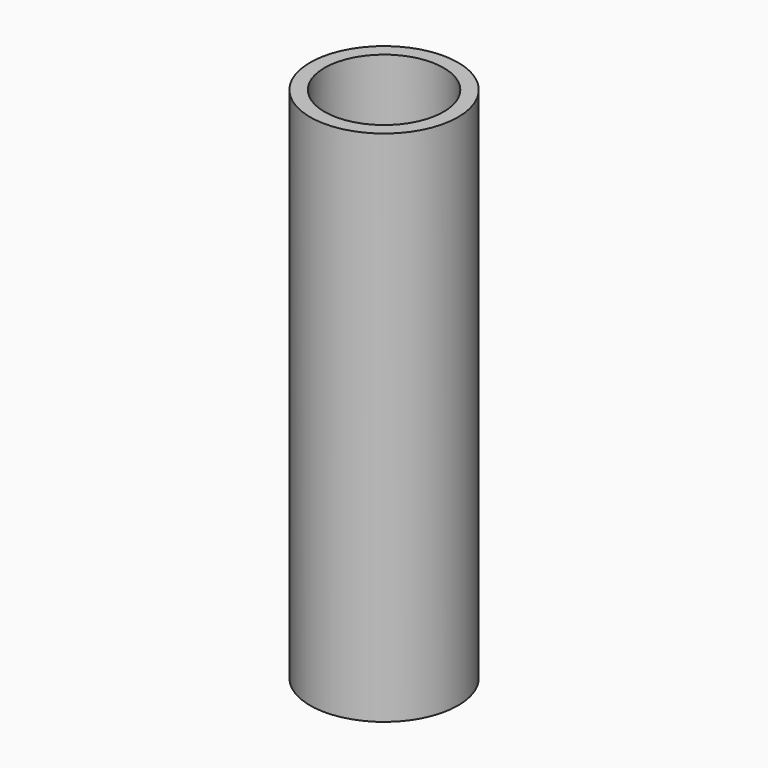
from build123d import *

# Parameters (mm, degrees)
F0_R     = 12.7
F1_DEPTH = 73.66
F2_R     = 5.1125641025
F3_DEPTH = 73.661
F3_TAPER = -2.9356734464
F4_R     = 12.7
F5_DEPTH = 15.24
F8_D     = 20.447
F8_DEPTH = 19.7358
F8_TIP   = 6.1428985386


with BuildPart() as f1:
    # F0 (on Top) → F1 (new body)
    with BuildSketch(Plane.XY):
        Circle(F0_R)
    extrude(amount=F1_DEPTH)

    # F2 (on Top) → F3 (cut, through all)
    with BuildSketch(Plane.XY):
        Circle(F2_R)
    extrude(amount=F3_DEPTH, taper=F3_TAPER, mode=Mode.SUBTRACT)

    # F4 (on face) → F5 (join)
    with BuildSketch(Plane.XY.offset(73.66)):
        Circle(F4_R)
    extrude(amount=F5_DEPTH)

    # F8
    with Locations(Plane.XY.offset(88.9)):
        with Locations((0, 0)):
            Hole(F8_D / 2, depth=F8_DEPTH)
            with Locations((0, 0, -(F8_DEPTH + F8_TIP / 2))):  # 118° drill point
                Cone(0, F8_D / 2, F8_TIP, mode=Mode.SUBTRACT)


solid = f1.part
